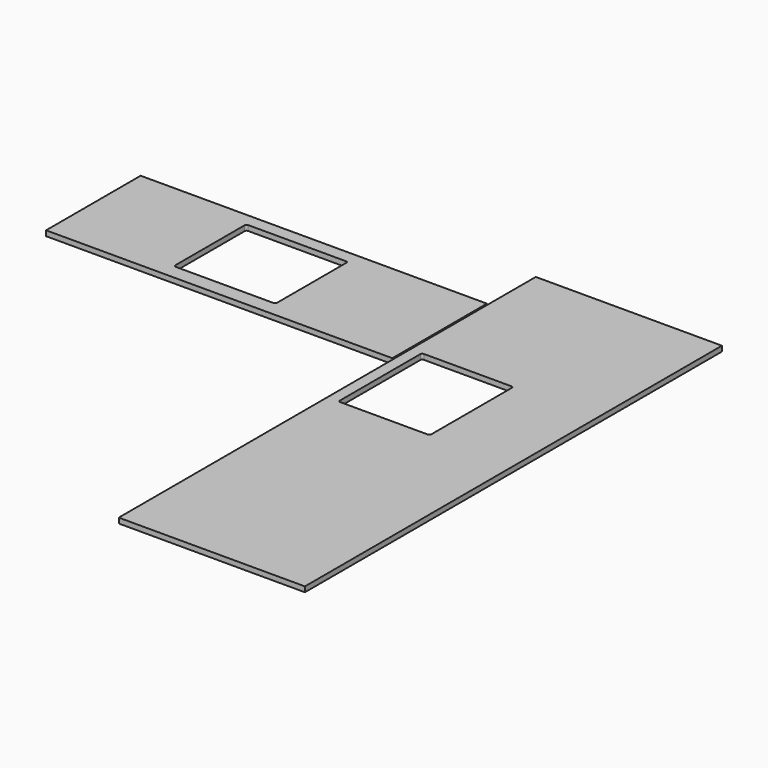
from build123d import *

# Parameters (mm, degrees)
F0_W     = 1860
F0_H     = 635
F1_DEPTH = 28
F2_W     = 1000
F2_H     = 2800
F3_DEPTH = 28
F4_W     = 546
F4_H     = 486
F5_DEPTH = 28.001
F6_R     = 10
F7_W     = 491
F7_H     = 561
F8_DEPTH = 28.001
F9_R     = 10


with BuildPart() as f1:
    # F0 (on Top) → F1 (new body)
    with BuildSketch(Plane.XY):
        with Locations((397.0349, -5.937561)):
            Rectangle(F0_W, F0_H)
    extrude(amount=F1_DEPTH)

    # F4 (on face) → F5 (cut, through all)
    with BuildSketch(Plane.XY.offset(28)):
        with Locations((361.834347, 0)):
            Rectangle(F4_W, F4_H)
    extrude(amount=-F5_DEPTH, mode=Mode.SUBTRACT)

    # F6
    f6_edges = [f1.edges().sort_by_distance(p)[0] for p in [
        (634.834347, 243, 14),
        (88.834347, -243, 14),
        (634.834347, -243, 14),
        (88.834347, 243, 14),
    ]]
    fillet(f6_edges, radius=F6_R)


with BuildPart() as f3:
    # F2 (on Top) → F3 (new body)
    with BuildSketch(Plane.XY):
        with Locations((1835.579574, -771.059727)):
            Rectangle(F2_W, F2_H)
    extrude(amount=F3_DEPTH)

    # F7 (on face) → F8 (cut, through all)
    with BuildSketch(Plane.XY.offset(28)):
        with Locations((1641.079574, -491.059727)):
            Rectangle(F7_W, F7_H)
    extrude(amount=-F8_DEPTH, mode=Mode.SUBTRACT)

    # F9
    f9_edges = [f3.edges().sort_by_distance(p)[0] for p in [
        (1395.579574, -210.559727, 14),
        (1886.579574, -210.559727, 14),
        (1395.579574, -771.559727, 14),
        (1886.579574, -771.559727, 14),
    ]]
    fillet(f9_edges, radius=F9_R)


solid = Compound([f1.part, f3.part])
